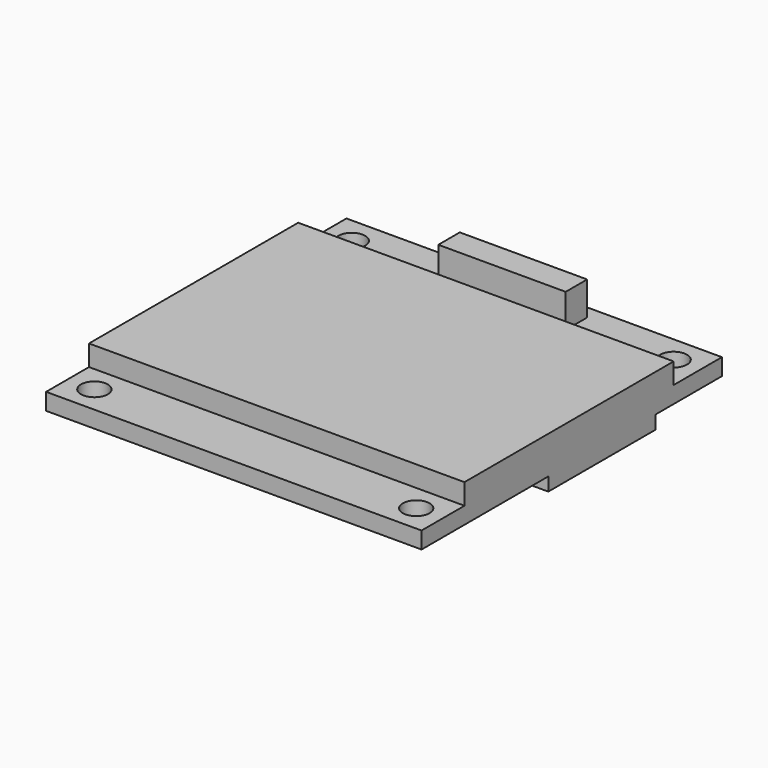
from build123d import *

# Parameters (mm, degrees)
F0_W          = 28
F0_H          = 4.5
F0_R          = 1
F0_W_2        = 9.5
F0_H_2        = 2
F0_H_3        = 1.684464
F0_H_4        = 4
F0_H_5        = 10
F0_H_6        = 7.815536
F1_DEPTH      = 1.25
F2_DEPTH      = 3.75
F2_DEPTH_BACK = 8.5
F3_DEPTH      = 1
F4_DEPTH      = 2.8


with BuildPart() as f1:
    # F0 (on Top) → F1 (new body)
    with BuildSketch(Plane.XY):
        with Locations((0, 11.75)):
            Rectangle(F0_W, F0_H)
        with Locations((-12, 12)):
            Circle(F0_R, mode=Mode.SUBTRACT)
        with Locations((0, 12)):
            Rectangle(F0_W_2, F0_H_2, mode=Mode.SUBTRACT)
        with Locations((12, 12)):
            Circle(F0_R, mode=Mode.SUBTRACT)
        with Locations((0, 12)):
            Rectangle(F0_W_2, F0_H_2)
        with Locations((0, 8.657768)):
            Rectangle(F0_W, F0_H_3)
        with Locations((0, -12)):
            Rectangle(F0_W, F0_H_4)
        with Locations((-12, -12)):
            Circle(F0_R, mode=Mode.SUBTRACT)
        with Locations((12, -12)):
            Circle(F0_R, mode=Mode.SUBTRACT)
        with Locations((0, 2.815536)):
            Rectangle(F0_W, F0_H_5)
        with Locations((0, -6.092232)):
            Rectangle(F0_W, F0_H_6)
    extrude(amount=F1_DEPTH)

    # F0 (on Top) → F2 (join, two sides)
    with BuildSketch(Plane.XY) as f2_sk:
        with Locations((0, 12)):
            Rectangle(F0_W_2, F0_H_2)
    extrude(amount=F2_DEPTH)
    extrude(f2_sk.sketch, amount=-F2_DEPTH_BACK)

    # F0 (on Top) → F3 (join)
    with BuildSketch(Plane.XY):
        with Locations((0, 2.815536)):
            Rectangle(F0_W, F0_H_5)
    extrude(amount=-F3_DEPTH)

    # F0 (on Top) → F4 (join)
    with BuildSketch(Plane.XY):
        with Locations((0, 2.815536)):
            Rectangle(F0_W, F0_H_5)
        with Locations((0, -6.092232)):
            Rectangle(F0_W, F0_H_6)
        with Locations((0, 8.657768)):
            Rectangle(F0_W, F0_H_3)
    extrude(amount=F4_DEPTH)


solid = f1.part
